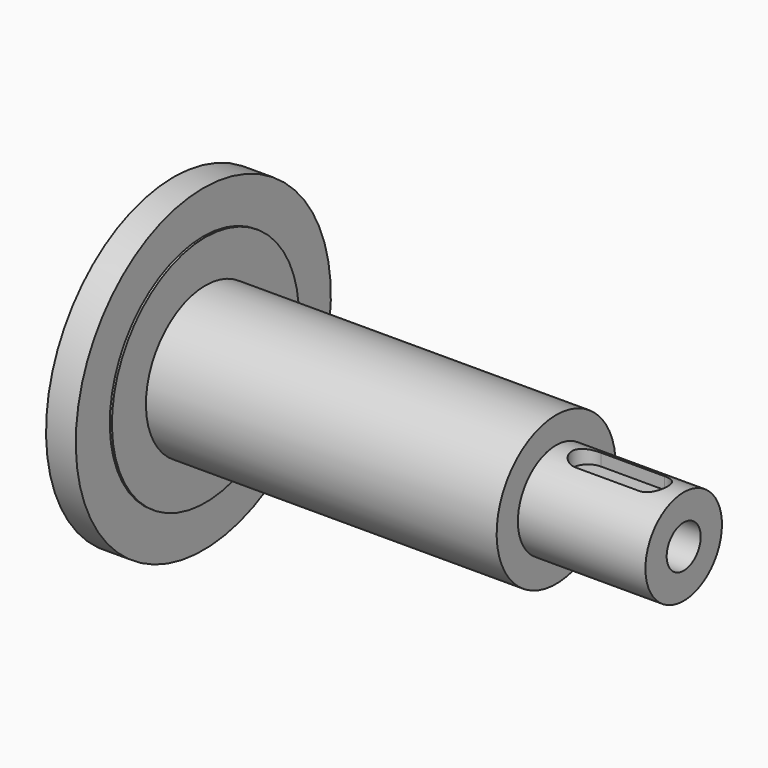
from build123d import *

# Parameters (mm, degrees)
F2_R      = 2
F3_DEPTH  = 20
F4_R      = 4
F5_DEPTH  = 20
F8_DEPTH  = 1.4
F9_R      = 3
F10_DEPTH = 8
F9_R_2    = 5
F11_DEPTH = 0.4


with BuildPart() as f1:
    # F0 (on Front) → F1 (revolve)
    with BuildSketch(Plane.XZ):
        Polygon((0, 15), (0, 0), (48, 0), (48, 4.5), (36, 4.5), (36, 7), (3, 7), (3, 11), (2.8, 11), (2.8, 15), align=None)
    revolve(axis=Axis((24, 0, 0), (-1, 0, 0)))

    # F2 (on face) → F3 (cut)
    with BuildSketch(Plane.YZ.offset(48)):
        Circle(F2_R)
    extrude(amount=-F3_DEPTH, mode=Mode.SUBTRACT)

    # F4 (on face) → F5 (cut)
    with BuildSketch(Plane(origin=(0, 0, 0), x_dir=(0, -1, 0), z_dir=(-1, 0, 0))):
        Circle(F4_R)
    extrude(amount=-F5_DEPTH, mode=Mode.SUBTRACT)

    # F7 (on offset) → F8 (cut)
    with BuildSketch(Plane.XY.offset(4.5)):
        with BuildLine():
            ThreePointArc((39, 1.5), (37.5, 0), (39, -1.5))
            Line((39, -1.5), (45, -1.5))
            ThreePointArc((45, -1.5), (46.5, 0), (45, 1.5))
            Line((45, 1.5), (39, 1.5))
        make_face()
    extrude(amount=-F8_DEPTH, mode=Mode.SUBTRACT)

    # F9 (on face) → F10 (join)
    with BuildSketch(Plane(origin=(0, 0, 0), x_dir=(0, -1, 0), z_dir=(-1, 0, 0))):
        with Locations((-9, 0)):
            Circle(F9_R)
    extrude(amount=F10_DEPTH)

    # F9 (on face) → F11 (join)
    with BuildSketch(Plane(origin=(0, 0, 0), x_dir=(0, -1, 0), z_dir=(-1, 0, 0))):
        with Locations((-9, 0)):
            Circle(F9_R_2)
        with Locations((-9, 0)):
            Circle(F9_R, mode=Mode.SUBTRACT)
    extrude(amount=F11_DEPTH)


solid = f1.part
